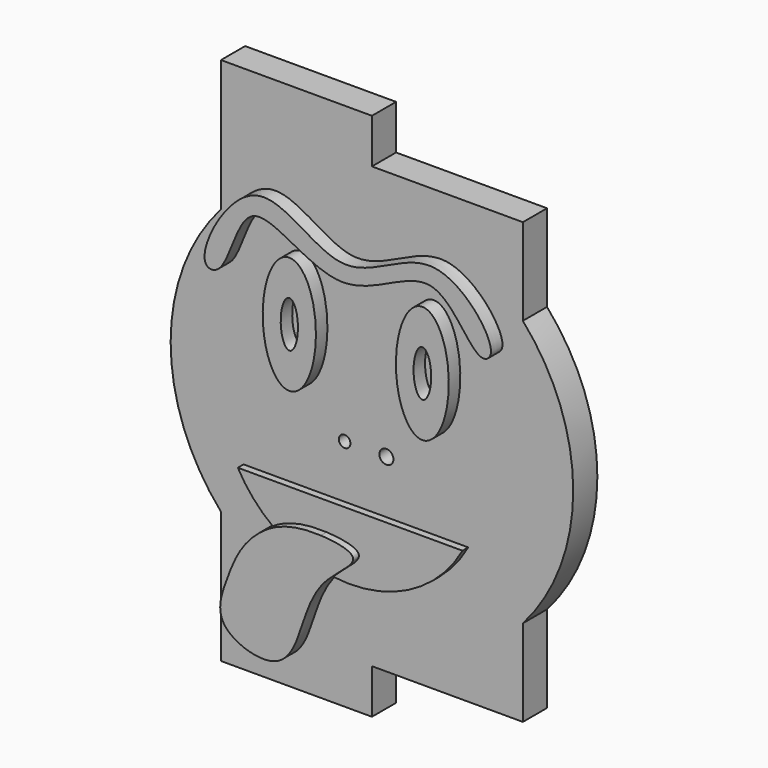
from build123d import *

# Parameters (mm, degrees)
F1_DEPTH = 2.1
F2_R     = 0.4883492614
F2_R_2   = 0.4063313189
F3_DEPTH = 25
F4_DEPTH = 1
F5_DEPTH = 0.5


with BuildPart() as f1:
    # F0 (on Front) → F1 (new body)
    with BuildSketch(Plane.XZ):
        with BuildLine():
            Line((-10.5, 18.4), (-10.5, 9.2601295887))
            ThreePointArc((-10.5, 9.2601295887), (-14, 0), (-10.5, -9.2601295887))
            Line((-10.5, -9.2601295887), (-10.5, -18.4))
            Line((-10.5, -18.4), (0, -18.4))
            Line((0, -18.4), (0, -15.3))
            Line((0, -15.3), (10.5, -15.3))
            Line((10.5, -15.3), (10.5, -9.2601295887))
            ThreePointArc((10.5, -9.2601295887), (14, 0), (10.5, 9.2601295887))
            Line((10.5, 9.2601295887), (10.5, 15.3))
            Line((10.5, 15.3), (0, 15.3))
            Line((0, 15.3), (0, 18.4))
            Line((0, 18.4), (-10.5, 18.4))
        make_face()
    extrude(amount=F1_DEPTH)

    # F2 (on face) → F3 (cut)
    with BuildSketch(Plane.XZ.offset(2.1)):
        with Locations((1.0072712321, -2.1537290886)):
            Circle(F2_R)
        with Locations((-1.9001974724, -2.1537290886)):
            Circle(F2_R_2)
    extrude(amount=-F3_DEPTH, mode=Mode.SUBTRACT)

    # F2 (on face) → F4 (join)
    with BuildSketch(Plane.XZ.offset(2.1)):
        with BuildLine():
            add(Edge.make_bspline(
                [(-9.829537943, 6.2690996565), (-9.0079139859, 7.0525339928), (-8.1620555875, 12.9171276073), (-1.2711703194, 5.8155205927), (5.1875775916, 12.3844979266), (7.9323570828, 6.1025672426), (9.9129431471, 7.414748035), (5.0242272403, 13.5560333346), (-1.2236991987, 6.9428523769), (-7.3257615774, 14.6230472142), (-11.8701250151, 6.0658118979), (-10.2089707518, 5.9073031337), (-9.829537943, 6.2690996565)],
                knots=[0, 0, 0, 0, 0.1008269557, 0.2197345761, 0.3404152051, 0.4410341374, 0.4857855194, 0.595336525, 0.7166600814, 0.8360867423, 0.9534372693, 1, 1, 1, 1], degree=3))
        make_face()
        with BuildLine():
            add(Edge.make_bspline(
                [(-4.9444967881, 8.510470856), (-8.1502829181, 8.510470856), (-6.5473898531, 2.389801899), (-4.9444967881, -3.730867058), (-3.3416037231, 2.389801899), (-1.738710658, 8.510470856), (-4.9444967881, 8.510470856)],
                knots=[0, 0, 0, 2.0943951024, 2.0943951024, 4.1887902048, 4.1887902048, 6.2831853072, 6.2831853072, 6.2831853072], degree=2, weights=[1, 0.5, 1, 0.5, 1, 0.5, 1]))
        make_face()
        with BuildLine():
            add(Edge.make_bspline(
                [(-4.9444967881, 6.0392147861), (-5.9832237951, 6.0392147861), (-5.4638602916, 3.6254299339), (-4.9444967881, 1.2116450816), (-4.4251332846, 3.6254299339), (-3.905769781, 6.0392147861), (-4.9444967881, 6.0392147861)],
                knots=[0, 0, 0, 2.0943951024, 2.0943951024, 4.1887902048, 4.1887902048, 6.2831853072, 6.2831853072, 6.2831853072], degree=2, weights=[1, 0.5, 1, 0.5, 1, 0.5, 1]))
        make_face(mode=Mode.SUBTRACT)
        with BuildLine():
            add(Edge.make_bspline(
                [(4.3083457276, 8.510470856), (1.1229755904, 8.510470856), (2.715660659, 2.389801899), (4.3083457276, -3.730867058), (5.9010307962, 2.389801899), (7.4937158648, 8.510470856), (4.3083457276, 8.510470856)],
                knots=[0, 0, 0, 2.0943951024, 2.0943951024, 4.1887902048, 4.1887902048, 6.2831853072, 6.2831853072, 6.2831853072], degree=2, weights=[1, 0.5, 1, 0.5, 1, 0.5, 1]))
        make_face()
        with BuildLine():
            add(Edge.make_bspline(
                [(4.3083457276, 6.0392147861), (3.2473717912, 6.0392147861), (3.7778587594, 3.6254299339), (4.3083457276, 1.2116450816), (4.8388326959, 3.6254299339), (5.3693196641, 6.0392147861), (4.3083457276, 6.0392147861)],
                knots=[0, 0, 0, 2.0943951024, 2.0943951024, 4.1887902048, 4.1887902048, 6.2831853072, 6.2831853072, 6.2831853072], degree=2, weights=[1, 0.5, 1, 0.5, 1, 0.5, 1]))
        make_face(mode=Mode.SUBTRACT)
        with BuildLine():
            ThreePointArc((-2.2997387979, -10.3645802836), (-4.5126640568, -9.7720787293), (-6.5023950834, -8.6367079814))
            add(Edge.make_bspline(
                [(-6.5023950834, -8.6367079814), (-7.1480490746, -9.0504727619), (-8.4142867998, -10.2988132014), (-9.3419195713, -12.6469034495), (-10.3868535035, -15.8161790247), (-5.2159255621, -17.543214943), (-3.9589557876, -13.2315806377), (-3.1690739286, -11.2494915586), (-2.2997387979, -10.3645802836)],
                knots=[0.1382922128, 0.1382922128, 0.1382922128, 0.1382922128, 0.223438935, 0.3305741163, 0.4348222448, 0.5581913657, 0.680074847, 0.7990907251, 0.7990907251, 0.7990907251, 0.7990907251], degree=3))
        make_face()
        with BuildLine():
            add(Edge.make_bspline(
                [(-2.7482081205, -7.7869482338), (-3.9633299887, -7.7307504346), (-5.2409611912, -7.913646006), (-6.3270688618, -8.5243508727), (-6.5023950834, -8.6367079814)],
                knots=[0, 0, 0, 0, 0.115170768, 0.1382922128, 0.1382922128, 0.1382922128, 0.1382922128], degree=3))
            ThreePointArc((-6.5023950834, -8.6367079814), (-4.5126640568, -9.7720787293), (-2.2997387979, -10.3645802836))
            add(Edge.make_bspline(
                [(-2.2997387979, -10.3645802836), (-1.5450723543, -9.5963922499), (0.6245191873, -8.2408264477), (-1.7185524071, -7.8345684656), (-2.7482081205, -7.7869482338)],
                knots=[0.7990907251, 0.7990907251, 0.7990907251, 0.7990907251, 0.9024079457, 1, 1, 1, 1], degree=3))
        make_face()
    extrude(amount=F4_DEPTH)

    # F2 (on face) → F5 (join)
    with BuildSketch(Plane.XZ.offset(2.1)):
        with BuildLine():
            Line((6.7010624334, -5.8486363851), (-8.9265769348, -5.8486363851))
            ThreePointArc((-8.9265769348, -5.8486363851), (-7.8600647438, -7.3692504701), (-6.5023950834, -8.6367079814))
            add(Edge.make_bspline(
                [(-2.7482081205, -7.7869482338), (-3.9633299887, -7.7307504346), (-5.2409611912, -7.913646006), (-6.3270688618, -8.5243508727), (-6.5023950834, -8.6367079814)],
                knots=[0, 0, 0, 0, 0.115170768, 0.1382922128, 0.1382922128, 0.1382922128, 0.1382922128], degree=3))
            add(Edge.make_bspline(
                [(-2.2997387979, -10.3645802836), (-1.5450723543, -9.5963922499), (0.6245191873, -8.2408264477), (-1.7185524071, -7.8345684656), (-2.7482081205, -7.7869482338)],
                knots=[0.7990907251, 0.7990907251, 0.7990907251, 0.7990907251, 0.9024079457, 1, 1, 1, 1], degree=3))
            ThreePointArc((-2.2997387979, -10.3645802836), (2.8968790479, -9.494250219), (6.7010624334, -5.8486363851))
        make_face()
    extrude(amount=F5_DEPTH)


solid = f1.part
